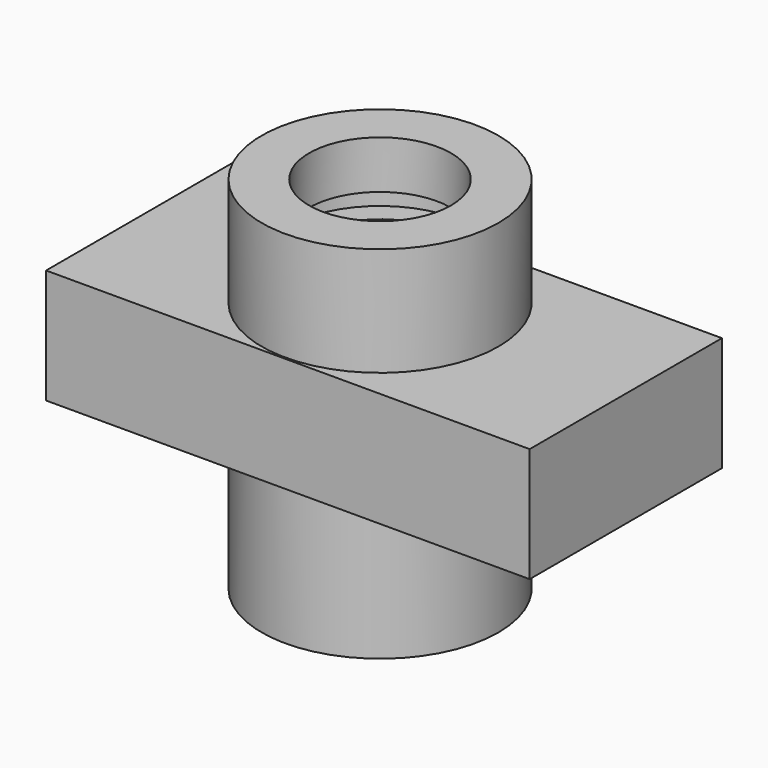
from build123d import *

# Parameters (mm, degrees)
F1_DEPTH = 25.4
F2_R     = 12.5138914525
F2_R_2   = 7.4979718204
F3_DEPTH = 38.1
F5_START = 30.48
F4_R     = 9.8673928173
F5_DEPTH = 2.54
F6_R     = 7.4979718204
F7_DEPTH = 38.101


with BuildPart() as f1:
    # F0 (on Front) → F1 (new body)
    with BuildSketch(Plane.XZ):
        Polygon((-9.8056579009, 14.4998570904), (0, 14.4998570904), (31.5032890067, 14.4998570904), (41.3089469075, 14.4998570904), (41.3089469075, 26.6004577279), (31.5032890067, 26.6004577279), (0, 26.6004577279), (-9.8056579009, 26.6004577279), align=None)
    extrude(amount=F1_DEPTH)

    # F2 (on Top) → F3 (join)
    with BuildSketch(Plane.XY):
        with Locations((15.3343798593, -12.7)):
            Circle(F2_R)
        with Locations((15.3343798593, -12.7)):
            Circle(F2_R_2, mode=Mode.SUBTRACT)
    extrude(amount=F3_DEPTH)

    # F4 (on Top) → F5 (cut)
    with BuildSketch(Plane.XY.offset(F5_START)):
        with Locations((15.3343798593, -12.7)):
            Circle(F4_R)
    extrude(amount=F5_DEPTH, mode=Mode.SUBTRACT)

    # F6 (on Top) → F7 (cut, through all)
    with BuildSketch(Plane.XY):
        with Locations((15.3343798593, -12.7)):
            Circle(F6_R)
    extrude(amount=F7_DEPTH, mode=Mode.SUBTRACT)


solid = f1.part
